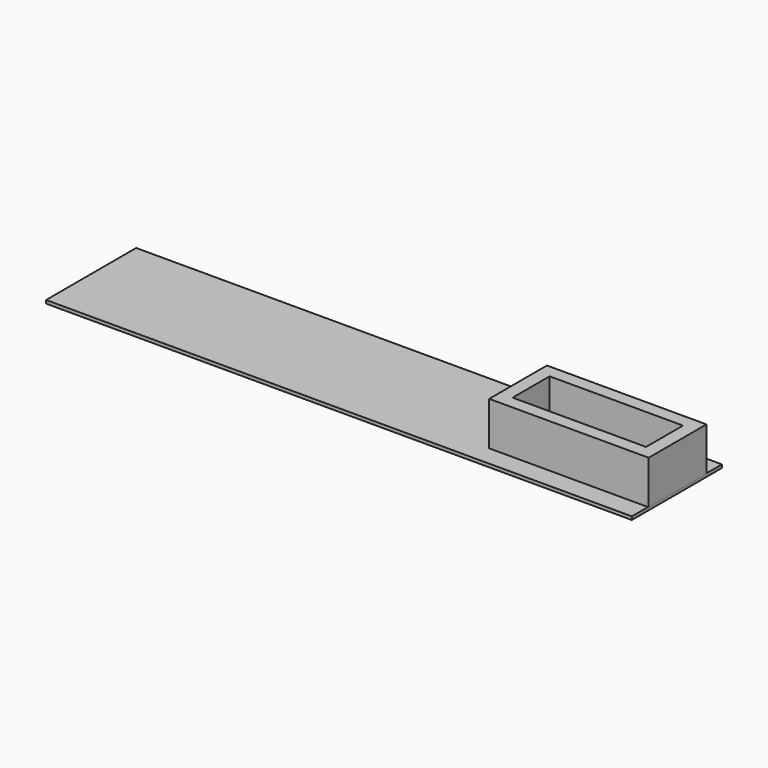
from build123d import *

# Parameters (mm, degrees)
SKETCH_W     = 24.5
SKETCH_H     = 11.1
SKETCH_W_2   = 20.5
SKETCH_H_2   = 7.1
PAD_DEPTH    = 6.7
SKETCH001_W  = 90
SKETCH001_H  = 17.3
PAD001_DEPTH = 0.5


with BuildPart() as part:
    # Sketch (on Sketch) → Pad (new body)
    with BuildSketch(Plane.XY):
        Rectangle(SKETCH_W, SKETCH_H)
        Rectangle(SKETCH_W_2, SKETCH_H_2, mode=Mode.SUBTRACT)
    extrude(amount=PAD_DEPTH)

    # Sketch001 → Pad001 (join)
    with BuildSketch(Plane.XY):
        with Locations((-32.851308, 0)):
            Rectangle(SKETCH001_W, SKETCH001_H)
    extrude(amount=-PAD001_DEPTH)


solid = part.part
